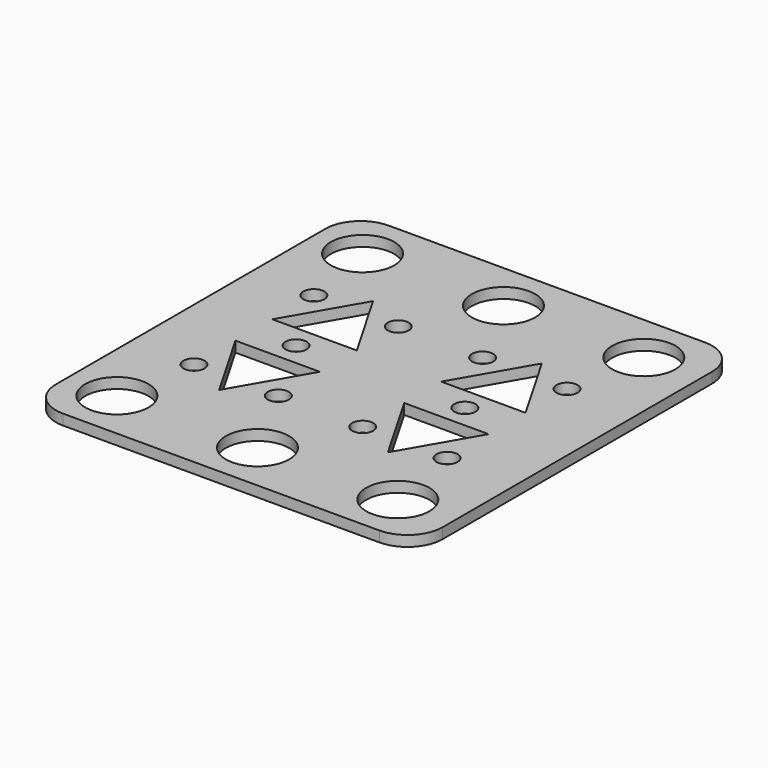
from build123d import *

# Parameters (mm, degrees)
F0_W     = 55
F0_H     = 57.900566
F0_R     = 4.5
F0_R_2   = 1.5
F1_DEPTH = 1.5
F2_R     = 5


with BuildPart() as f1:
    # F0 (on Top) → F1 (new body)
    with BuildSketch(Plane.XY):
        with Locations((0.815917, -0.227623)):
            Rectangle(F0_W, F0_H)
        with Locations((-19.684083, -22.092542)):
            Circle(F0_R, mode=Mode.SUBTRACT)
        with Locations((0.315917, -22.092542)):
            Circle(F0_R, mode=Mode.SUBTRACT)
        with Locations((-17.684083, -10.884629)):
            Circle(F0_R_2, mode=Mode.SUBTRACT)
        Polygon((-11.684083, -13.90603), (-17.684083, -3.513725), (-5.684083, -3.513725), align=None, mode=Mode.SUBTRACT)
        with Locations((-5.684083, -10.884629)):
            Circle(F0_R_2, mode=Mode.SUBTRACT)
        with Locations((20.272825, -22.092542)):
            Circle(F0_R, mode=Mode.SUBTRACT)
        with Locations((6.315917, -10.884629)):
            Circle(F0_R_2, mode=Mode.SUBTRACT)
        Polygon((12.315917, -13.90603), (6.315917, -3.513725), (18.315917, -3.513725), align=None, mode=Mode.SUBTRACT)
        with Locations((18.315917, -10.884629)):
            Circle(F0_R_2, mode=Mode.SUBTRACT)
        with Locations((-17.684083, 10.429382)):
            Circle(F0_R_2, mode=Mode.SUBTRACT)
        with Locations((-11.684083, -0.227623)):
            Circle(F0_R_2, mode=Mode.SUBTRACT)
        Polygon((-5.684083, 3.058479), (-17.684083, 3.058479), (-11.684083, 13.450784), align=None, mode=Mode.SUBTRACT)
        with Locations((-5.684083, 10.429382)):
            Circle(F0_R_2, mode=Mode.SUBTRACT)
        with Locations((-19.727175, 21.637296)):
            Circle(F0_R, mode=Mode.SUBTRACT)
        with Locations((0.315917, 21.637296)):
            Circle(F0_R, mode=Mode.SUBTRACT)
        with Locations((12.315917, -0.227623)):
            Circle(F0_R_2, mode=Mode.SUBTRACT)
        with Locations((6.315917, 10.429382)):
            Circle(F0_R_2, mode=Mode.SUBTRACT)
        Polygon((18.315917, 3.058479), (6.315917, 3.058479), (12.315917, 13.450784), align=None, mode=Mode.SUBTRACT)
        with Locations((18.315917, 10.429382)):
            Circle(F0_R_2, mode=Mode.SUBTRACT)
        with Locations((20.272825, 21.637296)):
            Circle(F0_R, mode=Mode.SUBTRACT)
    extrude(amount=F1_DEPTH)

    # F2
    f2_edges = [f1.edges().sort_by_distance(p)[0] for p in [
        (-26.684083, 28.72266, 0.75),
        (-26.684083, -29.177906, 0.75),
        (28.315917, -29.177906, 0.75),
        (28.315917, 28.72266, 0.75),
    ]]
    fillet(f2_edges, radius=F2_R)


solid = f1.part
